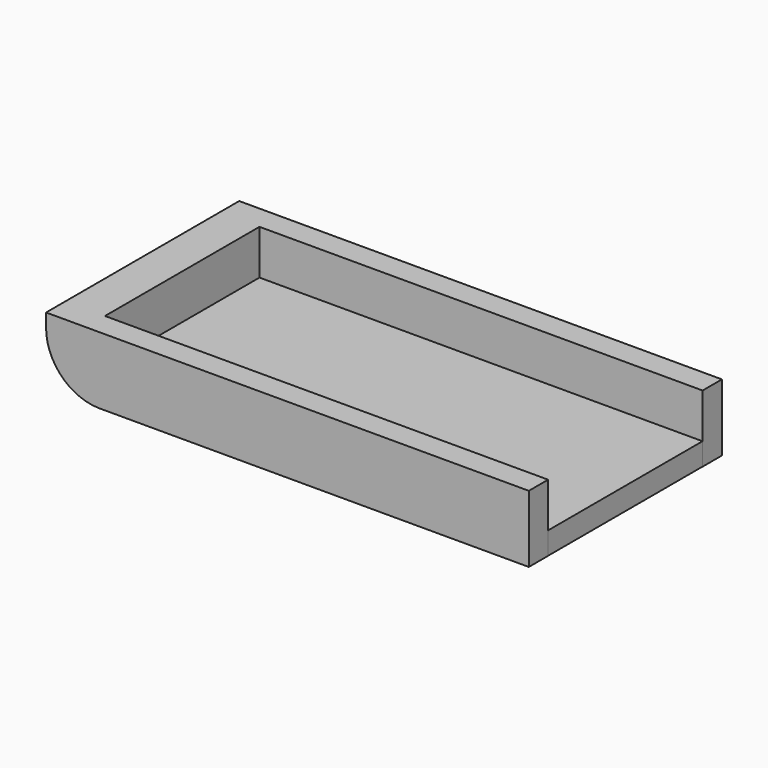
from build123d import *

# Parameters (mm, degrees)
F1_DEPTH = 19.05
F2_W     = 128.431639
F2_H     = 61.237093
F3_DEPTH = 6.35
F4_R     = 15.24


with BuildPart() as f1:
    # F0 (on Top) → F1 (new body)
    with BuildSketch(Plane.XY):
        Polygon((-110.641599, 45.212001), (-110.641599, -23.367999), (26.518401, -23.367999), (26.518401, -16.519178), (-99.390604, -16.519178), (-99.390604, 38.352568), (26.518401, 38.352568), (26.518401, 45.212001), align=None)
    extrude(amount=F1_DEPTH)

    # F2 (on Top) → F3 (join)
    with BuildSketch(Plane.XY):
        with Locations((-37.725527, 10.113819)):
            Rectangle(F2_W, F2_H)
    extrude(amount=F3_DEPTH)

    # F4
    f4_edges = [f1.edges().sort_by_distance(p)[0] for p in [
        (-110.641599, 10.922001, 0),
    ]]
    fillet(f4_edges, radius=F4_R)


solid = f1.part
